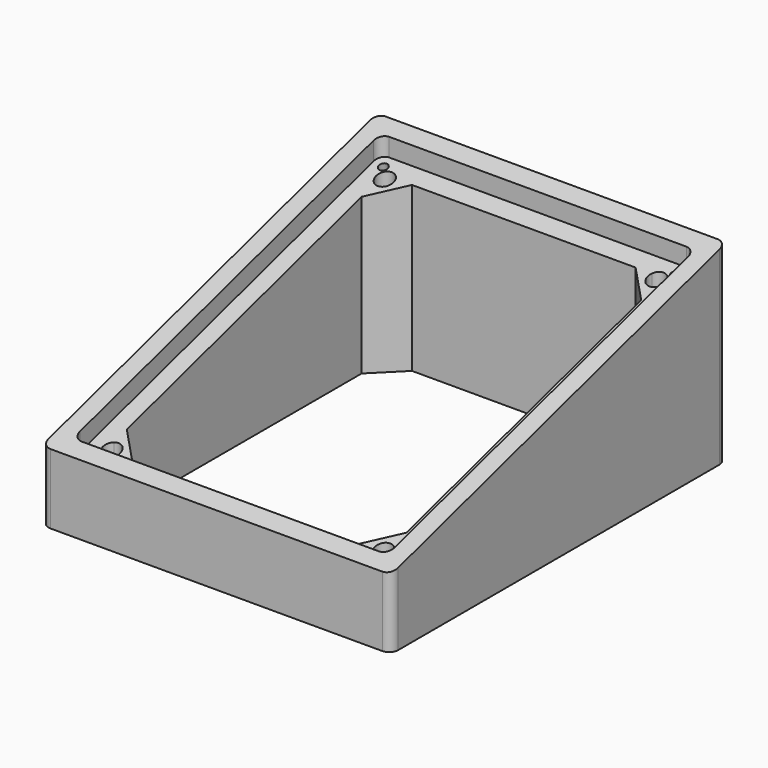
from build123d import *

# Parameters (mm, degrees)
F0_W     = 127
F0_H     = 152.4
F0_R     = 1.5875
F1_DEPTH = 76.2
F3_DEPTH = 133.858
F5_START = -6.35
F5_DEPTH = 114.3
F7_D     = 3.175
F7_DEPTH = 12.7
F7_TIP   = 0.9538662327
F8_R     = 3.175
F9_DEPTH = 19.05
F10_R    = 3.175


with BuildPart() as f1:
    # F0 (on Top) → F1 (new body)
    with BuildSketch(Plane.XY):
        with Locations((-4.7115e-06, 0.8819496805)):
            Rectangle(F0_W, F0_H)
        with BuildLine():
            ThreePointArc((-57.1500047115, 67.5569496805), (-56.2200687418, 69.8020137107), (-53.9750047115, 70.7319496805))
            Line((-53.9750047115, 70.7319496805), (53.9749952885, 70.7319496805))
            ThreePointArc((53.9749952885, 70.7319496805), (56.2200593188, 69.8020137107), (57.1499952885, 67.5569496805))
            Line((57.1499952885, 67.5569496805), (57.1499952885, -65.7930503195))
            ThreePointArc((57.1499952885, -65.7930503195), (56.2200593188, -68.0381143498), (53.9749952885, -68.9680503195))
            Line((53.9749952885, -68.9680503195), (-53.9750047115, -68.9680503195))
            ThreePointArc((-53.9750047115, -68.9680503195), (-56.2200687418, -68.0381143498), (-57.1500047115, -65.7930503195))
            Line((-57.1500047115, -65.7930503195), (-57.1500047115, 67.5569496805))
        make_face(mode=Mode.SUBTRACT)
        with BuildLine():
            Line((53.9749952885, 70.7319496805), (-53.9750047115, 70.7319496805))
            ThreePointArc((-53.9750047115, 70.7319496805), (-56.2200687418, 69.8020137107), (-57.1500047115, 67.5569496805))
            Line((-57.1500047115, 67.5569496805), (-57.1500047115, -65.7930503195))
            ThreePointArc((-57.1500047115, -65.7930503195), (-56.2200687418, -68.0381143498), (-53.9750047115, -68.9680503195))
            Line((-53.9750047115, -68.9680503195), (53.9749952885, -68.9680503195))
            ThreePointArc((53.9749952885, -68.9680503195), (56.2200593188, -68.0381143498), (57.1499952885, -65.7930503195))
            Line((57.1499952885, -65.7930503195), (57.1499952885, 67.5569496805))
            ThreePointArc((57.1499952885, 67.5569496805), (56.2200593188, 69.8020137107), (53.9749952885, 70.7319496805))
        make_face()
        with Locations((-53.0410580749, -64.8591036829)):
            Circle(F0_R, mode=Mode.SUBTRACT)
        with Locations((53.0410486519, -64.8591036829)):
            Circle(F0_R, mode=Mode.SUBTRACT)
        with BuildLine():
            Line((-46.5388031962, 64.3819496805), (-40.6400047115, 64.3819496805))
            Line((-40.6400047115, 64.3819496805), (40.6399952885, 64.3819496805))
            Line((40.6399952885, 64.3819496805), (46.5387937732, 64.3819496805))
            ThreePointArc((46.5387937732, 64.3819496805), (50.1081956465, 66.0487397971), (52.5521041545, 62.9590585465))
            ThreePointArc((52.5521041545, 62.9590585465), (52.0787984702, 61.2912837341), (50.7999952885, 60.1207481652))
            Line((50.7999952885, 60.1207481652), (50.7999952885, 54.2219496805))
            Line((50.7999952885, 54.2219496805), (50.7999952885, -52.4580503195))
            Line((50.7999952885, -52.4580503195), (50.7999952885, -58.3568488042))
            ThreePointArc((50.7999952885, -58.3568488042), (52.0787984702, -59.5273843732), (52.5521041545, -61.1951591855))
            ThreePointArc((52.5521041545, -61.1951591855), (50.1081956465, -64.2848404361), (46.5387937732, -62.6180503195))
            Line((46.5387937732, -62.6180503195), (40.6399952885, -62.6180503195))
            Line((40.6399952885, -62.6180503195), (-40.6400047115, -62.6180503195))
            Line((-40.6400047115, -62.6180503195), (-46.5388031962, -62.6180503195))
            ThreePointArc((-46.5388031962, -62.6180503195), (-51.6221776078, -63.4402232158), (-50.8000047115, -58.3568488042))
            Line((-50.8000047115, -58.3568488042), (-50.8000047115, -52.4580503195))
            Line((-50.8000047115, -52.4580503195), (-50.8000047115, 54.2219496805))
            Line((-50.8000047115, 54.2219496805), (-50.8000047115, 60.1207481652))
            ThreePointArc((-50.8000047115, 60.1207481652), (-51.6221776078, 65.2041225768), (-46.5388031962, 64.3819496805))
        make_face(mode=Mode.SUBTRACT)
        with Locations((-53.0410580749, 66.6230030439)):
            Circle(F0_R, mode=Mode.SUBTRACT)
        with Locations((53.0410486519, 66.6230030439)):
            Circle(F0_R, mode=Mode.SUBTRACT)
        with BuildLine():
            Line((-50.8000047115, 54.2219496805), (-40.6400047115, 64.3819496805))
            Line((-40.6400047115, 64.3819496805), (-46.5388031962, 64.3819496805))
            ThreePointArc((-46.5388031962, 64.3819496805), (-46.2874323269, 63.6901500385), (-46.2021135775, 62.9590585465))
            ThreePointArc((-46.2021135775, 62.9590585465), (-47.7093387651, 60.2573642308), (-50.8000047115, 60.1207481652))
            Line((-50.8000047115, 60.1207481652), (-50.8000047115, 54.2219496805))
        make_face()
        with BuildLine():
            Line((46.5387937732, 64.3819496805), (40.6399952885, 64.3819496805))
            Line((40.6399952885, 64.3819496805), (50.7999952885, 54.2219496805))
            Line((50.7999952885, 54.2219496805), (50.7999952885, 60.1207481652))
            ThreePointArc((50.7999952885, 60.1207481652), (47.1320401243, 60.7139945162), (46.5387937732, 64.3819496805))
        make_face()
        with BuildLine():
            Line((50.7999952885, -58.3568488042), (50.7999952885, -52.4580503195))
            Line((50.7999952885, -52.4580503195), (40.6399952885, -62.6180503195))
            Line((40.6399952885, -62.6180503195), (46.5387937732, -62.6180503195))
            ThreePointArc((46.5387937732, -62.6180503195), (47.1320401243, -58.9500951553), (50.7999952885, -58.3568488042))
        make_face()
        with BuildLine():
            Line((-40.6400047115, -62.6180503195), (-50.8000047115, -52.4580503195))
            Line((-50.8000047115, -52.4580503195), (-50.8000047115, -58.3568488042))
            ThreePointArc((-50.8000047115, -58.3568488042), (-47.7093387651, -58.4934648699), (-46.2021135775, -61.1951591855))
            ThreePointArc((-46.2021135775, -61.1951591855), (-46.2874323269, -61.9262506775), (-46.5388031962, -62.6180503195))
            Line((-46.5388031962, -62.6180503195), (-40.6400047115, -62.6180503195))
        make_face()
        with Locations((53.0410486519, 66.6230030439)):
            Circle(F0_R)
        with Locations((-53.0410580749, 66.6230030439)):
            Circle(F0_R)
        with Locations((53.0410486519, -64.8591036829)):
            Circle(F0_R)
        with Locations((-53.0410580749, -64.8591036829)):
            Circle(F0_R)
    extrude(amount=F1_DEPTH)

    # F2 (on face) → F3 (cut)
    with BuildSketch(Plane.YZ.offset(63.4999952885)):
        Polygon((-75.3835588694, 82.9634442925), (-75.3835588694, 25.4), (77.1753489971, 69.85), (77.1753489971, 82.9634442925), align=None)
    extrude(amount=-F3_DEPTH, mode=Mode.SUBTRACT)

    # F4 (on face) → F5 (cut)
    with BuildSketch(Plane.YZ.offset(63.4999952885).offset(F5_START)):
        Polygon((-68.9680503195, 27.2692409314), (-68.9680503195, 20.6551975037), (70.7319496805, 61.3585893072), (70.7319496805, 67.9726327349), align=None)
        Polygon((-68.9680503195, 30.4442409314), (-68.9680503195, 27.2692409314), (70.7319496805, 67.9726327349), (70.7319496805, 71.1476327349), align=None)
    extrude(amount=-F5_DEPTH, mode=Mode.SUBTRACT)

    # F7
    with Locations(Plane(origin=(0, -10.9439571817, 37.5612633379), x_dir=(1, 0, 0), z_dir=(0, -0.27973118, 0.960078365))):
        with Locations((-53.0352047115, 81.0311863737), (53.0351952885, 81.0311863737), (53.0351952885, -56.2481690356), (-53.0352047115, -56.2481690356)):
            Hole(F7_D / 2, depth=F7_DEPTH)
            with Locations((0, 0, -(F7_DEPTH + F7_TIP / 2))):  # 118° drill point
                Cone(0, F7_D / 2, F7_TIP, mode=Mode.SUBTRACT)

    # F8
    f8_edges = [f1.edges().sort_by_distance(p)[0] for p in [
        (-57.150005, -68.96805, 23.962219),
        (57.149995, -68.96805, 23.962219),
        (-57.150005, 70.73195, 64.665611),
        (57.149995, 70.73195, 64.665611),
    ]]
    fillet(f8_edges, radius=F8_R)

    # F0 (on Top) → F9 (join)
    with BuildSketch(Plane.XY):
        with BuildLine():
            ThreePointArc((-46.2021135775, 62.9590585465), (-46.2874323269, 63.6901500385), (-46.5388031962, 64.3819496805))
            Line((-46.5388031962, 64.3819496805), (-47.6250047115, 64.3819496805))
            ThreePointArc((-47.6250047115, 64.3819496805), (-48.0543198265, 64.3527903522), (-48.4757492467, 64.2658479684))
            ThreePointArc((-48.4757492467, 64.2658479684), (-47.9715759357, 63.6970424131), (-47.7896135775, 62.9590585465))
            ThreePointArc((-47.7896135775, 62.9590585465), (-48.9050817763, 61.4433599522), (-50.6839029994, 62.0576942157))
            ThreePointArc((-50.6839029994, 62.0576942157), (-50.7708453832, 61.6362647954), (-50.8000047115, 61.2069496805))
            Line((-50.8000047115, 61.2069496805), (-50.8000047115, 60.1207481652))
            ThreePointArc((-50.8000047115, 60.1207481652), (-47.7093387651, 60.2573642308), (-46.2021135775, 62.9590585465))
        make_face()
        with BuildLine():
            Line((-47.6250047115, 64.3819496805), (-46.5388031962, 64.3819496805))
            ThreePointArc((-46.5388031962, 64.3819496805), (-51.6221776078, 65.2041225768), (-50.8000047115, 60.1207481652))
            Line((-50.8000047115, 60.1207481652), (-50.8000047115, 61.2069496805))
            ThreePointArc((-50.8000047115, 61.2069496805), (-50.7708453832, 61.6362647954), (-50.6839029994, 62.0576942157))
            ThreePointArc((-50.6839029994, 62.0576942157), (-50.4996455926, 64.0815905616), (-48.4757492467, 64.2658479684))
            ThreePointArc((-48.4757492467, 64.2658479684), (-48.0543198265, 64.3527903522), (-47.6250047115, 64.3819496805))
        make_face()
        with BuildLine():
            Line((47.6249952885, 64.3819496805), (46.5387937732, 64.3819496805))
            ThreePointArc((46.5387937732, 64.3819496805), (47.1320401243, 60.7139945162), (50.7999952885, 60.1207481652))
            Line((50.7999952885, 60.1207481652), (50.7999952885, 61.2069496805))
            ThreePointArc((50.7999952885, 61.2069496805), (50.7708359603, 61.6362647954), (50.6838935764, 62.0576942157))
            ThreePointArc((50.6838935764, 62.0576942157), (48.2545721394, 61.8365265314), (48.4757398237, 64.2658479684))
            ThreePointArc((48.4757398237, 64.2658479684), (48.0543104035, 64.3527903522), (47.6249952885, 64.3819496805))
        make_face()
        with BuildLine():
            ThreePointArc((52.5521041545, 62.9590585465), (50.1081956465, 66.0487397971), (46.5387937732, 64.3819496805))
            Line((46.5387937732, 64.3819496805), (47.6249952885, 64.3819496805))
            ThreePointArc((47.6249952885, 64.3819496805), (48.0543104035, 64.3527903522), (48.4757398237, 64.2658479684))
            ThreePointArc((48.4757398237, 64.2658479684), (50.1150880212, 64.3645961883), (50.9646041545, 62.9590585465))
            ThreePointArc((50.9646041545, 62.9590585465), (50.8928027488, 62.4870267453), (50.6838935764, 62.0576942157))
            ThreePointArc((50.6838935764, 62.0576942157), (50.7708359603, 61.6362647954), (50.7999952885, 61.2069496805))
            Line((50.7999952885, 61.2069496805), (50.7999952885, 60.1207481652))
            ThreePointArc((50.7999952885, 60.1207481652), (52.0787984702, 61.2912837341), (52.5521041545, 62.9590585465))
        make_face()
        with BuildLine():
            ThreePointArc((52.5521041545, -61.1951591855), (52.0787984702, -59.5273843732), (50.7999952885, -58.3568488042))
            Line((50.7999952885, -58.3568488042), (50.7999952885, -60.0726271704))
            ThreePointArc((50.7999952885, -60.0726271704), (50.7933316222, -60.2566904654), (50.7733755129, -60.4397900414))
            ThreePointArc((50.7733755129, -60.4397900414), (50.9160546137, -60.8055597318), (50.9646041545, -61.1951591855))
            ThreePointArc((50.9646041545, -61.1951591855), (50.1898180444, -62.5588499068), (48.6217350104, -62.5914305439))
            ThreePointArc((48.6217350104, -62.5914305439), (48.4386354344, -62.6113866532), (48.2545721394, -62.6180503195))
            Line((48.2545721394, -62.6180503195), (46.5387937732, -62.6180503195))
            ThreePointArc((46.5387937732, -62.6180503195), (50.1081956465, -64.2848404361), (52.5521041545, -61.1951591855))
        make_face()
        with BuildLine():
            Line((50.7999952885, -60.0726271704), (50.7999952885, -58.3568488042))
            ThreePointArc((50.7999952885, -58.3568488042), (47.1320401243, -58.9500951553), (46.5387937732, -62.6180503195))
            Line((46.5387937732, -62.6180503195), (48.2545721394, -62.6180503195))
            ThreePointArc((48.2545721394, -62.6180503195), (48.4386354344, -62.6113866532), (48.6217350104, -62.5914305439))
            ThreePointArc((48.6217350104, -62.5914305439), (48.2545721394, -60.0726271704), (50.7733755129, -60.4397900414))
            ThreePointArc((50.7733755129, -60.4397900414), (50.7933316222, -60.2566904654), (50.7999952885, -60.0726271704))
        make_face()
        with BuildLine():
            Line((-50.8000047115, -59.4430503195), (-50.8000047115, -58.3568488042))
            ThreePointArc((-50.8000047115, -58.3568488042), (-51.6221776078, -63.4402232158), (-46.5388031962, -62.6180503195))
            Line((-46.5388031962, -62.6180503195), (-47.6250047115, -62.6180503195))
            ThreePointArc((-47.6250047115, -62.6180503195), (-48.0543198265, -62.5888909913), (-48.4757492467, -62.5019486074))
            ThreePointArc((-48.4757492467, -62.5019486074), (-50.4996455926, -62.3176912007), (-50.6839029994, -60.2937948547))
            ThreePointArc((-50.6839029994, -60.2937948547), (-50.7708453832, -59.8723654345), (-50.8000047115, -59.4430503195))
        make_face()
        with BuildLine():
            ThreePointArc((-46.2021135775, -61.1951591855), (-47.7093387651, -58.4934648699), (-50.8000047115, -58.3568488042))
            Line((-50.8000047115, -58.3568488042), (-50.8000047115, -59.4430503195))
            ThreePointArc((-50.8000047115, -59.4430503195), (-50.7708453832, -59.8723654345), (-50.6839029994, -60.2937948547))
            ThreePointArc((-50.6839029994, -60.2937948547), (-48.9050817763, -59.6794605913), (-47.7896135775, -61.1951591855))
            ThreePointArc((-47.7896135775, -61.1951591855), (-47.9715759357, -61.9331430522), (-48.4757492467, -62.5019486074))
            ThreePointArc((-48.4757492467, -62.5019486074), (-48.0543198265, -62.5888909913), (-47.6250047115, -62.6180503195))
            Line((-47.6250047115, -62.6180503195), (-46.5388031962, -62.6180503195))
            ThreePointArc((-46.5388031962, -62.6180503195), (-46.2874323269, -61.9262506775), (-46.2021135775, -61.1951591855))
        make_face()
    extrude(amount=F9_DEPTH)

    # F10
    f10_edges = [f1.edges().sort_by_distance(p)[0] for p in [
        (-63.500005, 77.08195, 34.911393),
        (-63.500005, -75.31805, 12.709543),
        (63.499995, 77.08195, 34.911393),
        (63.499995, -75.31805, 12.709543),
    ]]
    fillet(f10_edges, radius=F10_R)


solid = f1.part
